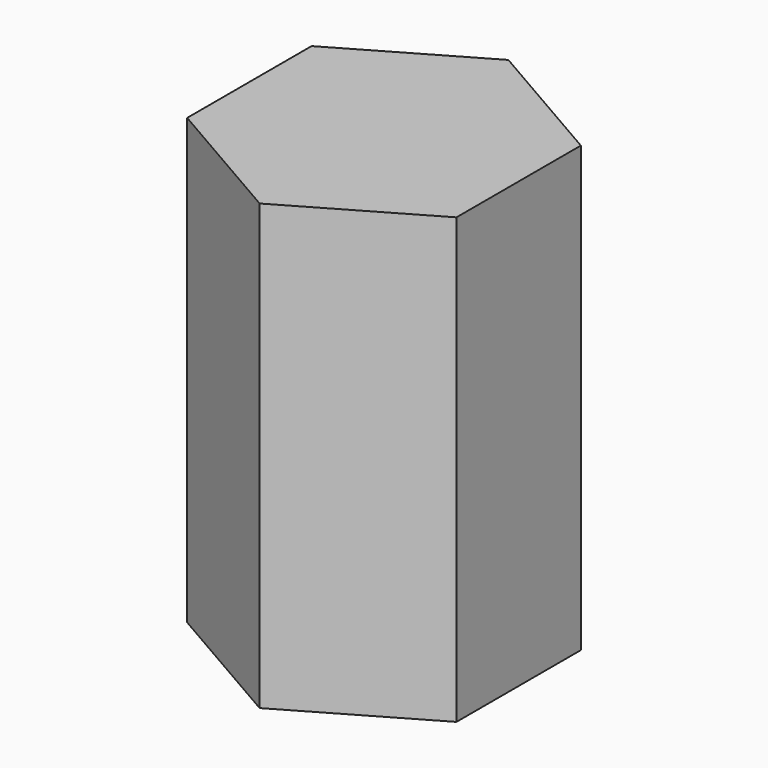
from build123d import *

# Parameters (mm, degrees)
PAD003_DEPTH   = 100
THICKNESS001_T = -3


with BuildPart() as part:
    # Sketch004 → Pad003 (new body)
    with BuildSketch(Plane.XY):
        Polygon((0, -35), (30.310889, -17.5), (30.310889, 17.5), (0, 35), (-30.310889, 17.5), (-30.310889, -17.5), align=None)
    extrude(amount=PAD003_DEPTH)

    # Thickness001
    thickness001_openings = [part.faces().sort_by_distance(p)[0] for p in [
        (0, 0, 0),
    ]]
    offset(amount=THICKNESS001_T, openings=thickness001_openings)


with BuildPart() as part_1:
    # Body001 placement: moved
    add(part.part.moved(Location((0, 1.5, 7))))


solid = part_1.part
